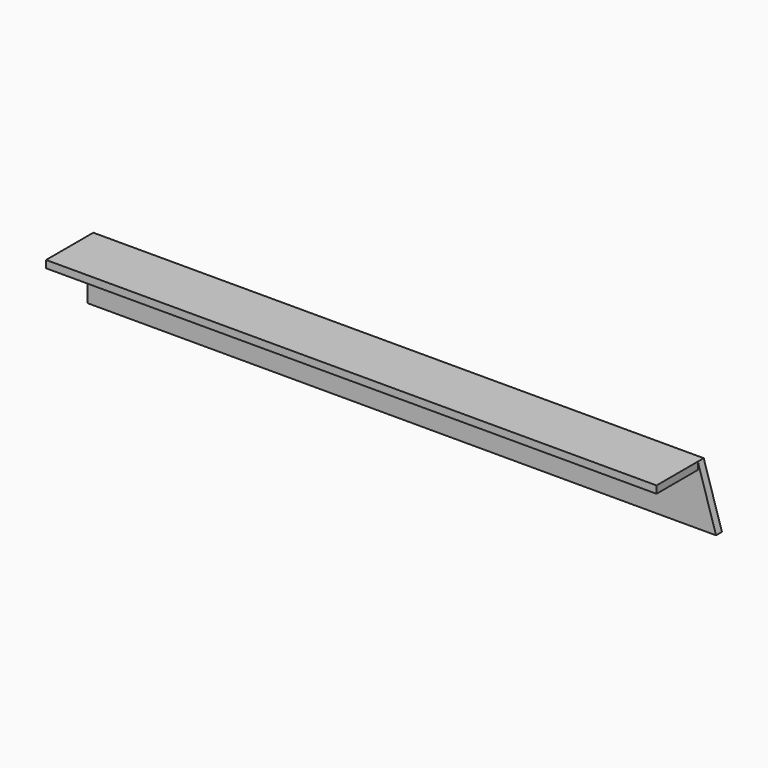
from build123d import *

# Parameters (mm, degrees)
F0_R     = 7.14375
F1_DEPTH = 6.35
F2_W     = 525.437685
F2_H     = 6.35
F3_DEPTH = 44.45


with BuildPart() as f1:
    # F0 (on Front) → F1 (new body)
    with BuildSketch(Plane.XZ):
        Polygon((270.542741, -25.4), (254.894944, 25.4), (-270.542741, 25.4), (-270.542741, -25.4), align=None)
        with Locations((-204.157631, -0.005385)):
            Circle(F0_R, mode=Mode.SUBTRACT)
        with Locations((62.628374, -0.017805)):
            Circle(F0_R, mode=Mode.SUBTRACT)
        with Locations((196.038318, -0.000635)):
            Circle(F0_R, mode=Mode.SUBTRACT)
    extrude(amount=F1_DEPTH)

    # F2 (on face) → F3 (join)
    with BuildSketch(Plane.XZ.offset(6.35)):
        with Locations((-7.823898, 22.225)):
            Rectangle(F2_W, F2_H)
    extrude(amount=F3_DEPTH)


solid = f1.part
